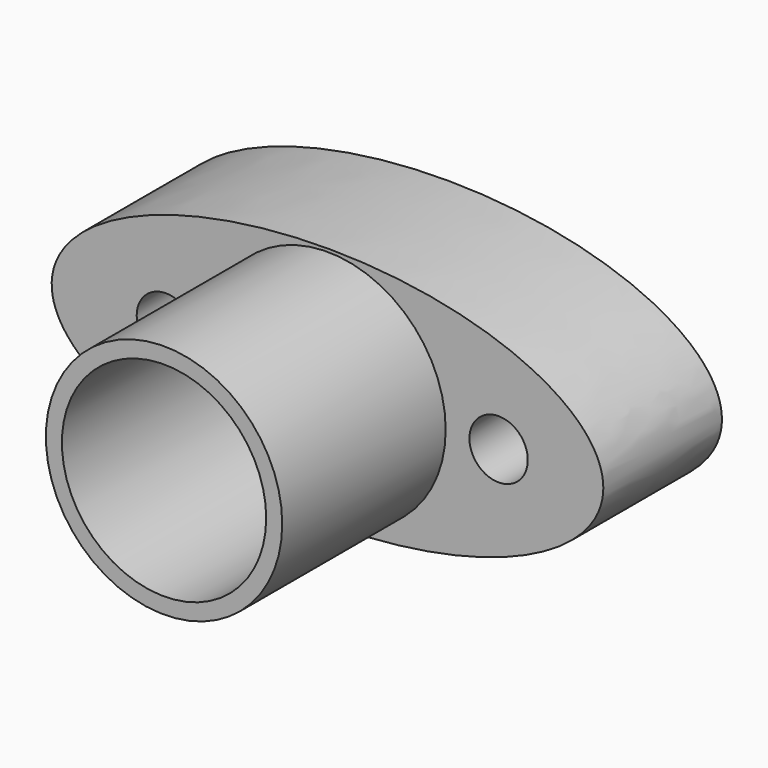
from build123d import *

# Parameters (mm, degrees)
F0_R     = 17.5
F1_DEPTH = 25.4
F3_R     = 20.246428
F3_R_2   = 17.5
F4_DEPTH = 35
F6_D     = 10


with BuildPart() as f1:
    # F0 (on Front) → F1 (new body)
    with BuildSketch(Plane.XZ):
        with BuildLine():
            add(Edge.make_bspline(
                [(47.248736, 0), (47.248736, 35.96778), (-23.624368, 17.98389), (-94.497472, 0), (-23.624368, -17.98389), (47.248736, -35.96778), (47.248736, 0)],
                knots=[0, 0, 0, 2.094395, 2.094395, 4.18879, 4.18879, 6.283185, 6.283185, 6.283185], degree=2, weights=[1, 0.5, 1, 0.5, 1, 0.5, 1]))
        make_face()
        Circle(F0_R, mode=Mode.SUBTRACT)
    extrude(amount=F1_DEPTH)

    # F3 (on face) → F4 (join)
    with BuildSketch(Plane.XZ.offset(25.4)):
        Circle(F3_R)
        Circle(F3_R_2, mode=Mode.SUBTRACT)
    extrude(amount=F4_DEPTH)

    # F6 (through all)
    with Locations(Plane.XZ.offset(25.4)):
        with Locations((-27.685712, 0), (29.314288, 0)):
            Hole(F6_D / 2)


solid = f1.part
